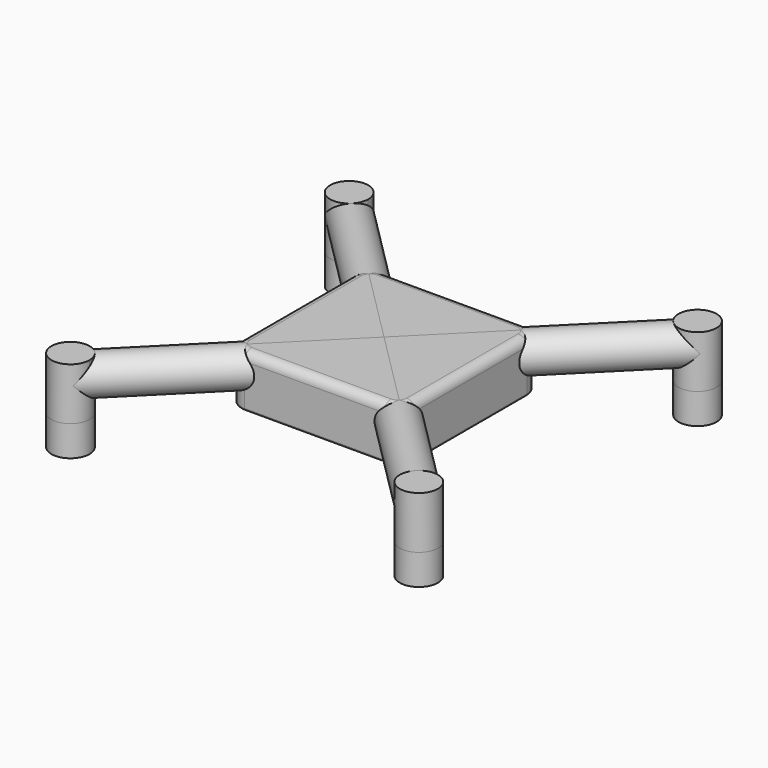
from build123d import *

# Parameters (mm, degrees)
PAD_DEPTH          = 12
FILLET_R           = 2
FILLET001_R        = 0.5
SKETCH001_R        = 4.375
PAD001_DEPTH       = 7
PAD002_DEPTH       = 12
CYLINDER_R         = 4.375
CYLINDER_DEPTH     = 56.568542
POLARPATTERN_COUNT = 4
SKETCH002_R        = 2.875
POCKET_DEPTH       = 7


with BuildPart() as part:
    # Sketch → Pad (new body)
    with BuildSketch(Plane.XY):
        with BuildLine():
            Line((-20, -16), (-20, 16))
            ThreePointArc((-16, 20), (-18.828427, 18.828427), (-20, 16))
            Line((-16, 20), (16, 20))
            ThreePointArc((20, 16), (18.828427, 18.828427), (16, 20))
            Line((20, 16), (20, -16))
            ThreePointArc((16, -20), (18.828427, -18.828427), (20, -16))
            Line((16, -20), (-16, -20))
            ThreePointArc((-20, -16), (-18.828427, -18.828427), (-16, -20))
        make_face()
    extrude(amount=PAD_DEPTH)

    # Fillet
    fillet_edges = [part.edges().sort_by_distance(p)[0] for p in [
        (20, 0, 12),
        (18.828427, -18.828427, 12),
        (0, -20, 12),
        (-18.828427, -18.828427, 12),
        (-20, 0, 12),
        (-18.828427, 18.828427, 12),
        (0, 20, 12),
        (18.828427, 18.828427, 12),
    ]]
    fillet(fillet_edges, radius=FILLET_R)

    # Fillet001
    fillet001_edges = [part.edges().sort_by_distance(p)[0] for p in [
        (0, 20, 0),
        (20, 0, 0),
        (18.828427, 18.828427, 0),
        (-18.828427, 18.828427, 0),
        (-20, 0, 0),
        (-18.828427, -18.828427, 0),
        (0, -20, 0),
        (18.828427, -18.828427, 0),
    ]]
    fillet(fillet001_edges, radius=FILLET001_R)

    # Sketch001 → Pad001 (join)
    with BuildSketch(Plane.XY):
        with Locations((-40, -40)):
            Circle(SKETCH001_R)
        with Locations((40, -40)):
            Circle(SKETCH001_R)
        with Locations((40, 40)):
            Circle(SKETCH001_R)
        with Locations((-40, 40)):
            Circle(SKETCH001_R)
    extrude(amount=-PAD001_DEPTH)

    # Sketch001 → Pad002 (join)
    with BuildSketch(Plane.XY):
        with Locations((-40, -40)):
            Circle(SKETCH001_R)
        with Locations((40, -40)):
            Circle(SKETCH001_R)
        with Locations((40, 40)):
            Circle(SKETCH001_R)
        with Locations((-40, 40)):
            Circle(SKETCH001_R)
    extrude(amount=PAD002_DEPTH)

    # Cylinder → Cylinder (join)
    with BuildSketch(Plane(origin=(0, 0, 7.625), x_dir=(0, 0, -1), z_dir=(0.707107, -0.707107, 0))):
        Circle(CYLINDER_R)
    cylinder = extrude(amount=CYLINDER_DEPTH)

    # PolarPattern: Cylinder ×4 about axis
    polarpattern_axis = Axis((0, 0, 0), (0, 0, 1))
    for i in range(1, POLARPATTERN_COUNT):
        add(cylinder.rotate(polarpattern_axis, i * 360 / POLARPATTERN_COUNT))

    # Sketch002 → Pocket (cut)
    with BuildSketch(Plane.XY):
        with Locations((-40, 40)):
            Circle(SKETCH002_R)
        with Locations((40, 40)):
            Circle(SKETCH002_R)
        with Locations((40, -40)):
            Circle(SKETCH002_R)
        with Locations((-40, -40)):
            Circle(SKETCH002_R)
    extrude(amount=-POCKET_DEPTH, mode=Mode.SUBTRACT)


solid = part.part
